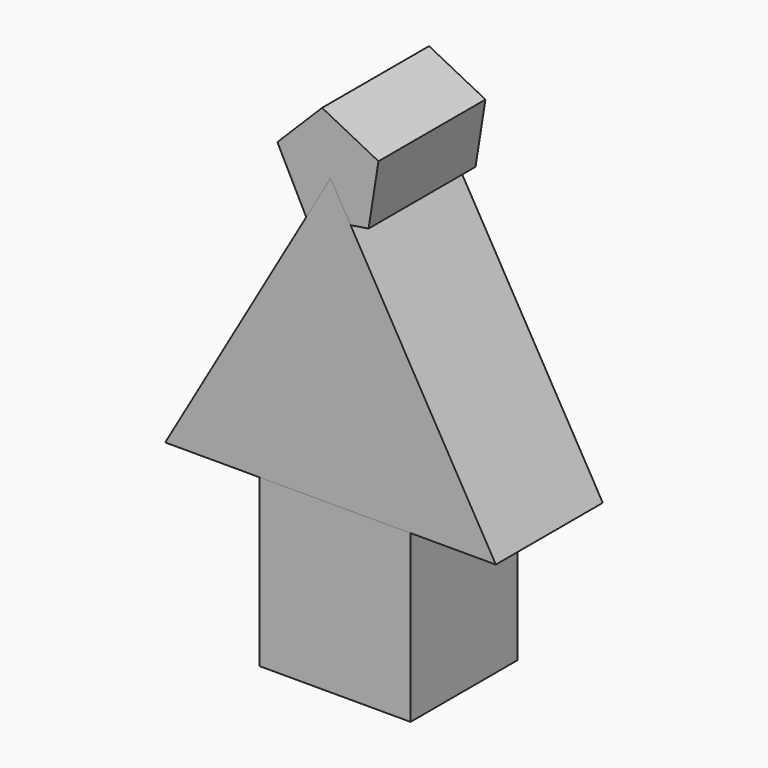
from build123d import *

# Parameters (mm, degrees)
F1_W     = 11.4634186029
F1_H     = 13.1010534242
F3_DEPTH = 10.16


with BuildPart() as f3:
    # F1 (on Front) → F3 (new body)
    with BuildSketch(Plane.XZ):
        with Locations((0.3509214148, -13.3350002579)):
            Rectangle(F1_W, F1_H)
    extrude(amount=F3_DEPTH)


with BuildPart() as f3b:
    # F2 (on Front) → F3, piece 2 (new body)
    with BuildSketch(Plane.XZ):
        Polygon((-0.6397442972, 19.0118313535), (-4.0391988973, 15.6123801366), (-1.8566179087, 11.3288184898), (2.8917459256, 12.080883016), (3.6438151775, 16.8292461018), align=None)
    extrude(amount=F3_DEPTH)


with BuildPart() as f3c:
    # F0 (on Front) → F3, piece 3 (new body)
    with BuildSketch(Plane.XZ):
        Polygon((-12.5614701018, -7.2523681447), (12.5614701018, -7.2523681447), (0, 14.5047362894), align=None)
    extrude(amount=F3_DEPTH)


solid = Compound([f3.part, f3b.part, f3c.part])
